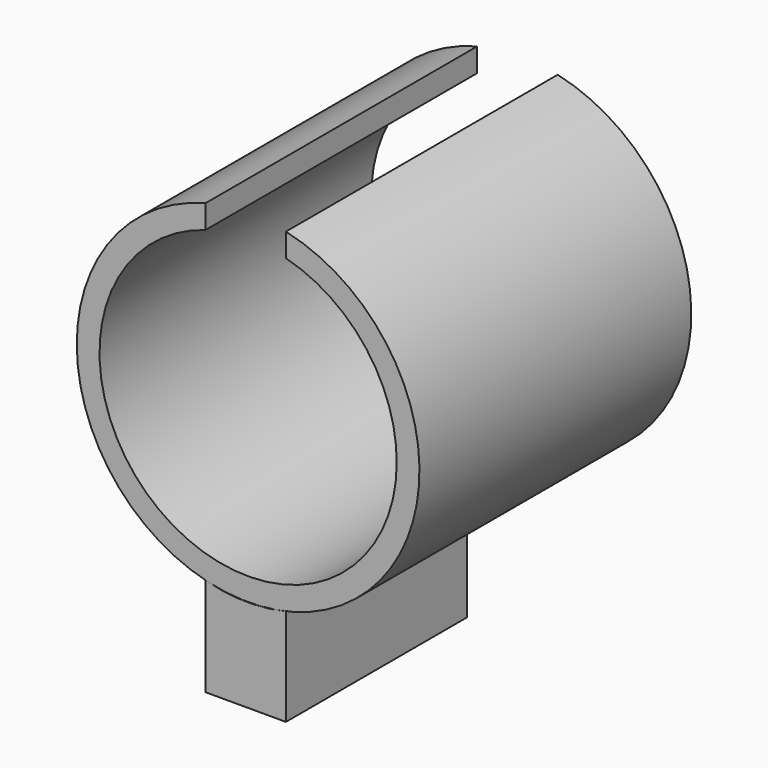
from build123d import *

# Parameters (mm, degrees)
F0_R     = 2.26945
F0_R_2   = 1.968402
F1_DEPTH = 4.5
F3_DEPTH = 25
F5_DEPTH = 3


with BuildPart() as f1:
    # F0 (on Front) → F1 (new body)
    with BuildSketch(Plane.XZ):
        Circle(F0_R)
        Circle(F0_R_2, mode=Mode.SUBTRACT)
    extrude(amount=F1_DEPTH)

    # F2 (on face) → F3 (cut)
    with BuildSketch(Plane.XZ.offset(4.5)):
        with BuildLine():
            ThreePointArc((0.500488, 2.213575), (-0.040313, 2.746496), (-0.56524, 2.197932))
            Line((-0.56524, 2.197932), (-0.56524, 1.8855))
            Line((-0.56524, 1.8855), (0.500488, 1.903712))
            Line((0.500488, 1.903712), (0.500488, 2.213575))
        make_face()
    extrude(amount=-F3_DEPTH, mode=Mode.SUBTRACT)


with BuildPart() as f5:
    # F4 (on face) → F5 (new body)
    with BuildSketch(Plane.XZ.offset(4.5)):
        with BuildLine():
            ThreePointArc((0.500488, -2.213575), (-0.033367, -2.273294), (-0.56524, -2.197932))
            Line((-0.56524, -2.197932), (-0.56524, -3.503564))
            Line((-0.56524, -3.503564), (0.500488, -3.503564))
            Line((0.500488, -3.503564), (0.500488, -2.213575))
        make_face()
    extrude(amount=-F5_DEPTH)


solid = Compound([f1.part, f5.part])
